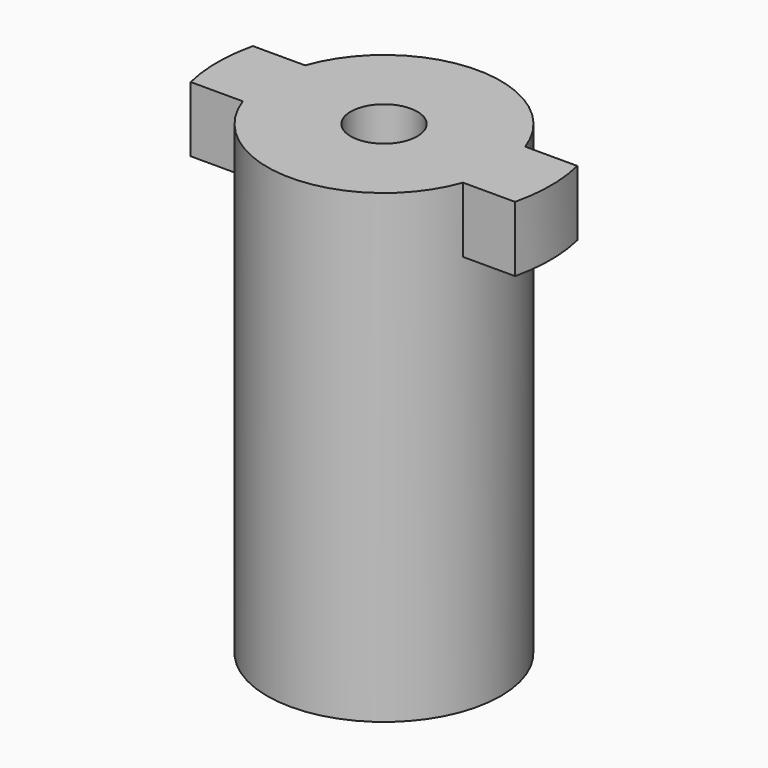
from build123d import *

# Parameters (mm, degrees)
F0_R     = 8.75
F1_DEPTH = 30
F3_DEPTH = 4.9
F5_D     = 5


with BuildPart() as f1:
    # F0 (on Top) → F1 (new body)
    with BuildSketch(Plane.XY):
        Circle(F0_R)
    extrude(amount=F1_DEPTH)

    # F2 (on face) → F3 (join)
    with BuildSketch(Plane.XY.offset(30)):
        with BuildLine():
            ThreePointArc((8.249579, 2.916667), (0, 8.75), (-8.249579, 2.916667))
            Line((-8.249579, 2.916667), (-12.15496, 2.916667))
            ThreePointArc((-12.15496, 2.916667), (-12.5, 0), (-12.15496, -2.916667))
            Line((-12.15496, -2.916667), (-8.249579, -2.916667))
            ThreePointArc((-8.249579, -2.916667), (0, -8.75), (8.249579, -2.916667))
            Line((8.249579, -2.916667), (12.15496, -2.916667))
            ThreePointArc((12.15496, -2.916667), (12.5, 0), (12.15496, 2.916667))
            Line((12.15496, 2.916667), (8.249579, 2.916667))
        make_face()
    extrude(amount=F3_DEPTH)

    # F5 (through all)
    with Locations(Plane(origin=(0, 0, 0), x_dir=(1, 0, 0), z_dir=(0, 0, -1))):
        with Locations((0, 0)):
            Hole(F5_D / 2)


solid = f1.part
